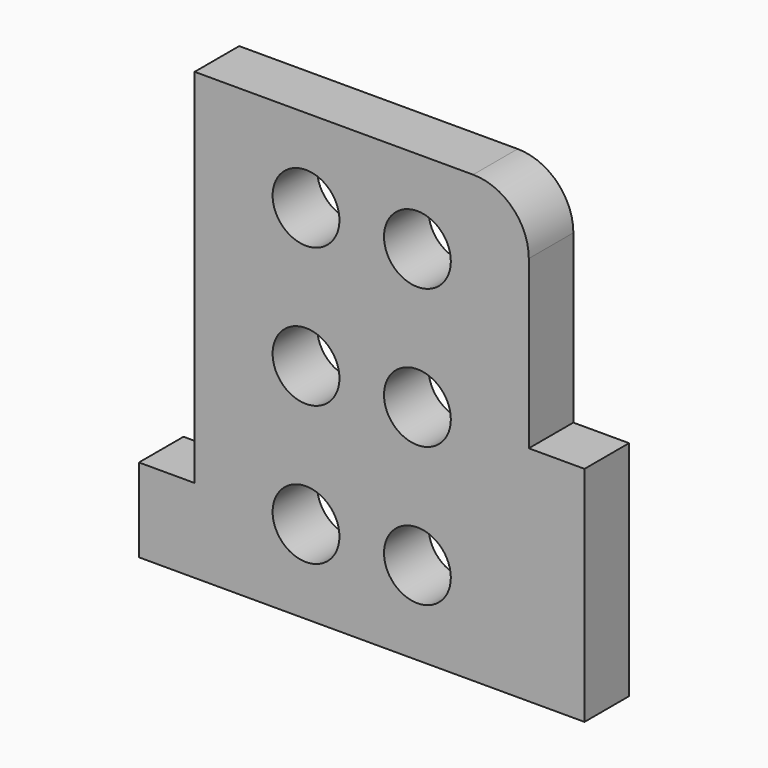
from build123d import *

# Parameters (mm, degrees)
F0_R     = 6
F1_DEPTH = 5


with BuildPart() as f1:
    # F0 (on Front) → F1 (new body, symmetric)
    with BuildSketch(Plane.XZ):
        with BuildLine():
            Line((0, 15), (0, 0))
            Line((0, 0), (80, 0))
            Line((80, 0), (80, 40))
            Line((80, 40), (70, 40))
            Line((70, 40), (70, 70))
            ThreePointArc((70, 70), (67.071068, 77.071068), (60, 80))
            Line((60, 80), (10, 80))
            Line((10, 80), (10, 15))
            Line((10, 15), (0, 15))
        make_face()
        with Locations((30, 15)):
            Circle(F0_R, mode=Mode.SUBTRACT)
        with Locations((50, 15)):
            Circle(F0_R, mode=Mode.SUBTRACT)
        with Locations((30, 40)):
            Circle(F0_R, mode=Mode.SUBTRACT)
        with Locations((30, 65)):
            Circle(F0_R, mode=Mode.SUBTRACT)
        with Locations((50, 40)):
            Circle(F0_R, mode=Mode.SUBTRACT)
        with Locations((50, 65)):
            Circle(F0_R, mode=Mode.SUBTRACT)
    extrude(amount=F1_DEPTH, both=True)


solid = f1.part
